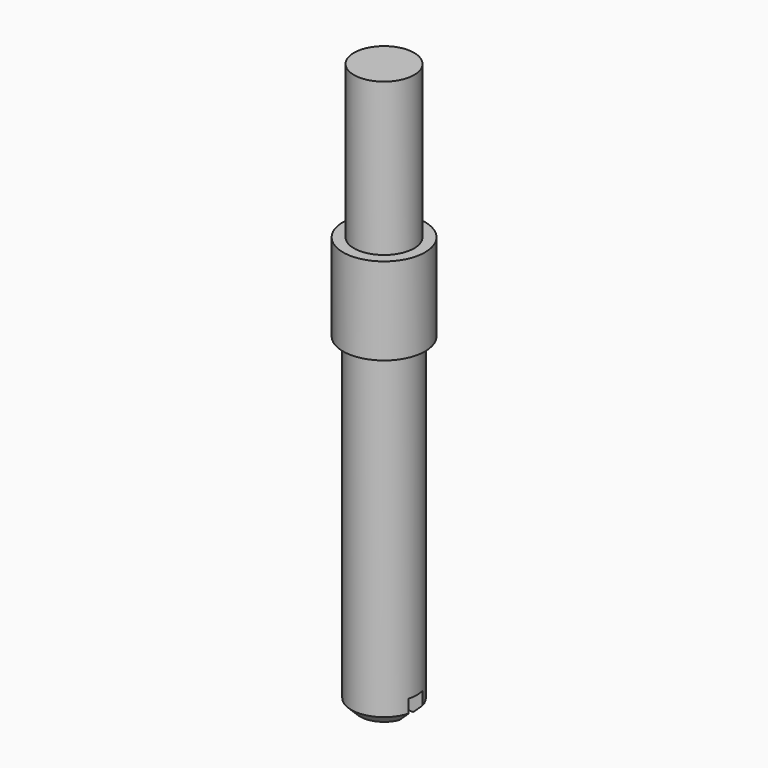
from build123d import *

# Parameters (mm, degrees)
F0_R     = 2.3876
F1_DEPTH = 5.08
F2_R     = 1.7526
F3_DEPTH = 8.89
F4_R     = 1.905
F5_DEPTH = 19.05
F6_SIZE  = 0.508
F7_W     = 8.721276
F7_H     = 1.003916
F8_DEPTH = 1.27


with BuildPart() as f1:
    # F0 (on Top) → F1 (new body)
    with BuildSketch(Plane.XY):
        Circle(F0_R)
    extrude(amount=F1_DEPTH)

    # F2 (on face) → F3 (join)
    with BuildSketch(Plane.XY.offset(5.08)):
        Circle(F2_R)
    extrude(amount=F3_DEPTH)

    # F4 (on face) → F5 (join)
    with BuildSketch(Plane(origin=(0, 0, 0), x_dir=(1, 0, 0), z_dir=(0, 0, -1))):
        Circle(F4_R)
    extrude(amount=F5_DEPTH)

    # F6
    f6_edges = [f1.edges().sort_by_distance(p)[0] for p in [
        (-1.905, 0, -19.05),
    ]]
    chamfer(f6_edges, length=F6_SIZE)

    # F7 (on face) → F8 (cut)
    with BuildSketch(Plane(origin=(0, 0, -19.05), x_dir=(1, 0, 0), z_dir=(0, 0, -1))):
        Rectangle(F7_W, F7_H)
    extrude(amount=-F8_DEPTH, mode=Mode.SUBTRACT)


solid = f1.part
